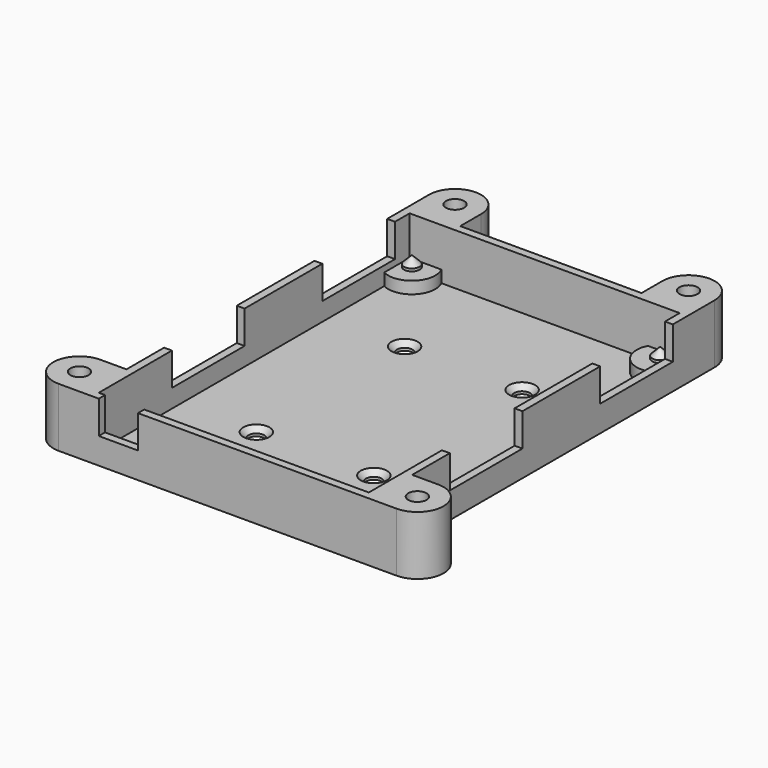
from build123d import *

# Parameters (mm, degrees)
F1_W      = 54.708
F1_H      = 77.4
F2_DEPTH  = 11.3
F3_T      = -1.5
F4_W      = 20.1
F4_H      = 17.4
F5_DEPTH  = 6.3
F6_R      = 4.5
F7_DEPTH  = 2.3
F8_R      = 1.5
F9_DEPTH  = 11.301
F10_SIZE  = 1
F11_R     = 1.75
F12_DEPTH = 11.3
F13_R     = 1.5
F14_DEPTH = 2
F15_SIZE  = 1.5
F16_W     = 7.5
F16_H     = 1.5
F17_DEPTH = 6.3


with BuildPart() as f2:
    # F1 (on face) → F2 (new body)
    with BuildSketch(Plane.XY):
        with Locations((25.654, 37)):
            Rectangle(F1_W, F1_H)
    extrude(amount=F2_DEPTH)

    # F3
    f3_openings = [f2.faces().sort_by_distance(p)[0] for p in [
        (25.654, 37, 11.3),
    ]]
    offset(amount=F3_T, openings=f3_openings)

    # F4 (on face) → F5 (cut, through all)
    with BuildSketch(Plane.XY.offset(11.3)):
        with Locations((8.35, 26)):
            Rectangle(F4_W, F4_H)
        with Locations((42.958, 26)):
            Rectangle(F4_W, F4_H)
        with Locations((8.35, 62)):
            Rectangle(F4_W, F4_H)
        with Locations((42.958, 62)):
            Rectangle(F4_W, F4_H)
    extrude(amount=-F5_DEPTH, mode=Mode.SUBTRACT)

    # F6 (on face) → F7 (join, through all)
    with BuildSketch(Plane.XY.offset(1.5)):
        with BuildLine():
            Line((-1.7, 74.8469880528), (-1.7, 69.3930119472))
            ThreePointArc((-1.7, 69.3930119472), (6.3796, 72.12), (-1.7, 74.8469880528))
        make_face()
        with BuildLine():
            Line((53.008, 69.3930119472), (53.008, 74.8469880528))
            ThreePointArc((53.008, 74.8469880528), (44.9284, 72.12), (53.008, 69.3930119472))
        make_face()
        with Locations((11.2141, 3.9243)):
            Circle(F6_R)
        with Locations((32.512, 3.9243)):
            Circle(F6_R)
        with BuildLine():
            Line((53.008, 1.1973119472), (53.008, 6.6512880528))
            ThreePointArc((53.008, 6.6512880528), (44.9284, 3.9243), (53.008, 1.1973119472))
        make_face()
    extrude(amount=F7_DEPTH)

    # F8 (on face) → F9 (cut, through all)
    with BuildSketch(Plane(origin=(0, 0, 0), x_dir=(1, 0, 0), z_dir=(0, 0, -1))):
        with Locations((14.404, -54.75)):
            Circle(F8_R)
        with Locations((14.404, -19.25)):
            Circle(F8_R)
        with Locations((36.904, -19.25)):
            Circle(F8_R)
        with Locations((36.904, -54.75)):
            Circle(F8_R)
    extrude(amount=-F9_DEPTH, mode=Mode.SUBTRACT)

    # F10
    f10_edges = [f2.edges().sort_by_distance(p)[0] for p in [
        (35.404, 54.75, 1.5),
        (12.904, 54.75, 1.5),
        (35.404, 19.25, 1.5),
        (12.904, 19.25, 1.5),
    ]]
    chamfer(f10_edges, length=F10_SIZE)

    # F11 (on face) → F12 (join, through all)
    with BuildSketch(Plane(origin=(0, 0, 0), x_dir=(1, 0, 0), z_dir=(0, 0, -1))):
        with BuildLine():
            Line((-1.7, 1.7), (-6.7, 1.7))
            ThreePointArc((-6.7, 1.7), (-11.7, -3.3), (-6.7, -8.3))
            Line((-6.7, -8.3), (-1.7, -8.3))
            Line((-1.7, -8.3), (-1.7, 1.7))
        make_face()
        with Locations((-6.7, -3.3)):
            Circle(F11_R, mode=Mode.SUBTRACT)
        with BuildLine():
            Line((-1.7, -75.7), (-1.7, -80.7))
            ThreePointArc((-1.7, -80.7), (3.3, -85.7), (8.3, -80.7))
            Line((8.3, -80.7), (8.3, -75.7))
            Line((8.3, -75.7), (-1.7, -75.7))
        make_face()
        with Locations((3.3, -80.7)):
            Circle(F11_R, mode=Mode.SUBTRACT)
        with BuildLine():
            Line((53.008, -8.3), (58.008, -8.3))
            ThreePointArc((58.008, -8.3), (63.008, -3.3), (58.008, 1.7))
            Line((58.008, 1.7), (53.008, 1.7))
            Line((53.008, 1.7), (53.008, -8.3))
        make_face()
        with Locations((58.008, -3.3)):
            Circle(F11_R, mode=Mode.SUBTRACT)
        with BuildLine():
            Line((43.008, -75.7), (43.008, -80.7))
            ThreePointArc((43.008, -80.7), (48.008, -85.7), (53.008, -80.7))
            Line((53.008, -80.7), (53.008, -75.7))
            Line((53.008, -75.7), (43.008, -75.7))
        make_face()
        with Locations((48.008, -80.7)):
            Circle(F11_R, mode=Mode.SUBTRACT)
    extrude(amount=-F12_DEPTH)

    # F13 (on face) → F14 (join)
    with BuildSketch(Plane.XY.offset(3.8)):
        with Locations((49.4284, 3.9243)):
            Circle(F13_R)
        with Locations((32.512, 3.9243)):
            Circle(F13_R)
        with Locations((11.2141, 3.9243)):
            Circle(F13_R)
        with Locations((49.4284, 72.12)):
            Circle(F13_R)
        with Locations((1.8796, 72.12)):
            Circle(F13_R)
    extrude(amount=F14_DEPTH)

    # F15
    f15_edges = [f2.edges().sort_by_distance(p)[0] for p in [
        (47.9284, 3.9243, 5.8),
        (31.012, 3.9243, 5.8),
        (9.7141, 3.9243, 5.8),
        (47.9284, 72.12, 5.8),
        (0.3796, 72.12, 5.8),
    ]]
    chamfer(f15_edges, length=F15_SIZE)

    # F16 (on face) → F17 (cut, through all)
    with BuildSketch(Plane.XY.offset(11.3)):
        with Locations((4.75, -0.95)):
            Rectangle(F16_W, F16_H)
    extrude(amount=-F17_DEPTH, mode=Mode.SUBTRACT)


solid = f2.part
